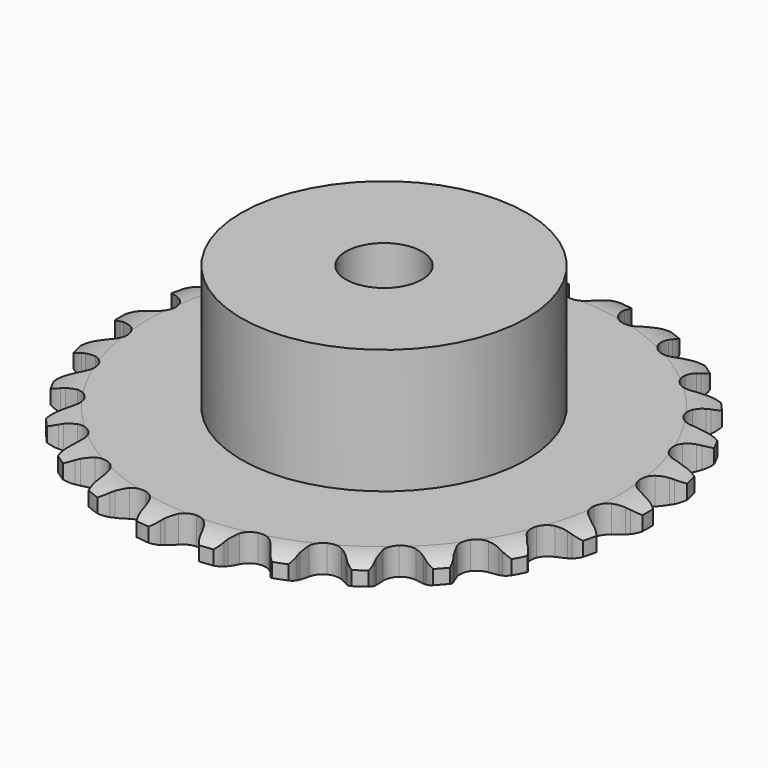
from build123d import *

# Parameters (mm, degrees)
PAD_DEPTH         = 2.9
SKETCH001_R       = 15
PAD001_DEPTH      = 16
SKETCH002_R       = 4
POCKET_DEPTH      = 0.0010001
POCKET_DEPTH_BACK = 16.001


with BuildPart() as part:
    # Sprocket → Pad (new body)
    with BuildSketch(Plane.XY):
        with BuildLine():
            ThreePointArc((-3.4232506712, 28.19300575), (-2.6247869741, 27.6030238895), (-2.0964272781, 26.7625127934))
            Line((-2.0964272781, 26.7625127934), (-1.9358469765, 26.3540520778))
            ThreePointArc((-1.9358469765, 26.3540520778), (-1.6786242774, 25.8129049491), (-1.3492634161, 25.3123800696))
            ThreePointArc((-1.3492634161, 25.3123800696), (-0.7528285942, 24.82038083), (0, 24.6441796485))
            ThreePointArc((0, 24.6441796485), (0.7528285942, 24.82038083), (1.3492634161, 25.3123800696))
            ThreePointArc((1.3492634161, 25.3123800696), (1.6786242774, 25.8129049491), (1.9358469765, 26.3540520778))
            Line((1.9358469765, 26.3540520778), (2.0964272781, 26.7625127934))
            ThreePointArc((2.0964272781, 26.7625127934), (2.6247869741, 27.6030238895), (3.4232506712, 28.19300575))
            ThreePointArc((3.4232506712, 28.19300575), (4.0573205635, 27.4290828201), (4.3691796157, 26.4865506972))
            Line((4.3691796157, 26.4865506972), (4.4273426981, 26.0515297261))
            ThreePointArc((4.4273426981, 26.0515297261), (4.5475859884, 25.4645499283), (4.7475927777, 24.8997481789))
            ThreePointArc((4.7475927777, 24.8997481789), (5.2089531628, 24.2793093474), (5.8977382234, 23.9280645769))
            ThreePointArc((5.8977382234, 23.9280645769), (6.6708586896, 23.9189819972), (7.3677053244, 24.2539484375))
            Line((7.3677053244, 24.2539484375), (8.1865322613, 25.1249727158))
            ThreePointArc((8.1865322613, 25.1249727158), (8.308830642, 25.307265132), (8.4401974386, 25.4831349238))
            ThreePointArc((8.4401974386, 25.4831349238), (9.1543514334, 26.1727775435), (10.0708051275, 26.5545307332))
            ThreePointArc((10.0708051275, 26.5545307332), (10.5036313777, 25.6610631578), (10.5808656715, 24.6712865491))
            Line((10.5808656715, 24.6712865491), (10.5332313078, 24.2349871602))
            ThreePointArc((10.5332313078, 24.2349871602), (10.5095070864, 23.6362878256), (10.568536136, 23.0400334309))
            ThreePointArc((10.568536136, 23.0400334309), (10.8680094957, 22.3272126572), (11.4527213387, 21.8213373671))
            ThreePointArc((11.4527213387, 21.8213373671), (12.2012027256, 21.6274988727), (12.9579629799, 21.7859654816))
            Line((12.9579629799, 21.7859654816), (13.9614460479, 22.4357212652))
            ThreePointArc((13.9614460479, 22.4357212652), (14.1238160906, 22.5834486768), (14.2934540029, 22.7227698799))
            ThreePointArc((14.2934540029, 22.7227698799), (15.1518982622, 23.2214645007), (16.1330809957, 23.372802912))
            ThreePointArc((16.1330809957, 23.372802912), (16.3395093154, 22.4017157789), (16.1776302743, 21.4222169034))
            Line((16.1776302743, 21.4222169034), (16.0269668006, 21.0099952311))
            ThreePointArc((16.0269668006, 21.0099952311), (15.860653833, 20.4343705889), (15.7752745891, 19.841315687))
            ThreePointArc((15.7752745891, 19.841315687), (15.8954566203, 19.0775395235), (16.3421139187, 18.4464333468))
            ThreePointArc((16.3421139187, 18.4464333468), (17.0224572088, 18.0791041264), (17.7951509272, 18.0518614008))
            Line((17.7951509272, 18.0518614008), (18.924971338, 18.4425872451))
            ThreePointArc((18.924971338, 18.4425872451), (19.117976686, 18.547164272), (19.3160269751, 18.6418400444))
            ThreePointArc((19.3160269751, 18.6418400444), (20.2688718389, 18.9206043478), (21.2577608378, 18.8327327422))
            ThreePointArc((21.2577608378, 18.8327327422), (21.2257943633, 17.8404621059), (20.8342098089, 16.9281658777))
            Line((20.8342098089, 16.9281658777), (20.5892732386, 16.5639787474))
            ThreePointArc((20.5892732386, 16.5639787474), (20.2900370299, 16.0448820095), (20.065211424, 15.4894927957))
            ThreePointArc((20.065211424, 15.4894927957), (19.9991175838, 14.7191491368), (20.2817622389, 13.9994896704))
            ThreePointArc((20.2817622389, 13.9994896704), (20.8544283531, 13.4800175632), (21.5981493854, 13.2686487512))
            Line((21.5981493854, 13.2686487512), (22.7886460834, 13.3776370905))
            ThreePointArc((22.7886460834, 13.3776370905), (23.0010699674, 13.4329860959), (23.2160226705, 13.477514226))
            ThreePointArc((23.2160226705, 13.477514226), (24.2078922586, 13.5201474437), (25.1470168888, 13.1981725997))
            ThreePointArc((25.1470168888, 13.1981725997), (24.8785133955, 12.2423856227), (24.2799807987, 11.4503113827))
            Line((24.2799807987, 11.4503113827), (23.9550059549, 11.1553240265))
            ThreePointArc((23.9550059549, 11.1553240265), (23.540237026, 10.7229232084), (23.1890311049, 10.237476885))
            ThreePointArc((23.1890311049, 10.237476885), (22.9405025271, 9.5053353041), (23.042708259, 8.7389465405))
            ThreePointArc((23.042708259, 8.7389465405), (23.4744159243, 8.0975213771), (24.1459419074, 7.7143104657))
            Line((24.1459419074, 7.7143104657), (25.3279275517, 7.5352272938))
            ThreePointArc((25.3279275517, 7.5352272938), (25.5474246678, 7.5381315948), (25.766787515, 7.5299242694))
            ThreePointArc((25.766787515, 7.5299242694), (26.7400379724, 7.333948714), (27.5748197239, 6.796582639))
            ThreePointArc((27.5748197239, 6.796582639), (27.0853836589, 5.9328261864), (26.3146875586, 5.3070064103))
            Line((26.3146875586, 5.3070064103), (25.9285607981, 5.0983624212))
            ThreePointArc((25.9285607981, 5.0983624212), (25.4223640114, 4.7777870867), (24.9651885867, 4.3904960296))
            ThreePointArc((24.9651885867, 4.3904960296), (24.5486688489, 3.739105934), (24.464495832, 2.9705276024))
            ThreePointArc((24.464495832, 2.9705276024), (24.730155768, 2.2444266818), (25.2904600526, 1.7116444963))
            Line((25.2904600526, 1.7116444963), (26.3952419341, 1.2548974763))
            ThreePointArc((26.3952419341, 1.2548974763), (26.6090559076, 1.2051882855), (26.8200803276, 1.1447224845))
            ThreePointArc((26.8200803276, 1.1447224845), (27.7181498753, 0.7215275429), (28.4000742671, 0))
            ThreePointArc((28.4000742671, 0), (27.7181498753, -0.7215275429), (26.8200803276, -1.1447224845))
            Line((26.8200803276, -1.1447224845), (26.3952419341, -1.2548974763))
            ThreePointArc((26.3952419341, -1.2548974763), (25.827035607, -1.4450166539), (25.2904600526, -1.7116444963))
            ThreePointArc((25.2904600526, -1.7116444963), (24.730155768, -2.2444266818), (24.464495832, -2.9705276024))
            ThreePointArc((24.464495832, -2.9705276024), (24.5486688489, -3.739105934), (24.9651885867, -4.3904960296))
            Line((24.9651885867, -4.3904960296), (25.9285607981, -5.0983624212))
            ThreePointArc((25.9285607981, -5.0983624212), (26.1242655381, -5.1977961864), (26.3146875586, -5.3070064103))
            ThreePointArc((26.3146875586, -5.3070064103), (27.0853836589, -5.9328261864), (27.5748197239, -6.796582639))
            ThreePointArc((27.5748197239, -6.796582639), (26.7400379724, -7.333948714), (25.766787515, -7.5299242694))
            Line((25.766787515, -7.5299242694), (25.3279275517, -7.5352272938))
            ThreePointArc((25.3279275517, -7.5352272938), (24.7307337705, -7.583841279), (24.1459419074, -7.7143104657))
            ThreePointArc((24.1459419074, -7.7143104657), (23.4744159243, -8.0975213771), (23.042708259, -8.7389465405))
            ThreePointArc((23.042708259, -8.7389465405), (22.9405025271, -9.5053353041), (23.1890311049, -10.237476885))
            Line((23.1890311049, -10.237476885), (23.9550059549, -11.1553240265))
            ThreePointArc((23.9550059549, -11.1553240265), (24.1212278133, -11.2987036371), (24.2799807987, -11.4503113827))
            ThreePointArc((24.2799807987, -11.4503113827), (24.8785133955, -12.2423856227), (25.1470168888, -13.1981725997))
            ThreePointArc((25.1470168888, -13.1981725997), (24.2078922586, -13.5201474437), (23.2160226705, -13.477514226))
            Line((23.2160226705, -13.477514226), (22.7886460834, -13.3776370905))
            ThreePointArc((22.7886460834, -13.3776370905), (22.1971715799, -13.2819206151), (21.5981493854, -13.2686487512))
            ThreePointArc((21.5981493854, -13.2686487512), (20.8544283531, -13.4800175632), (20.2817622389, -13.9994896704))
            ThreePointArc((20.2817622389, -13.9994896704), (19.9991175838, -14.7191491368), (20.065211424, -15.4894927957))
            Line((20.065211424, -15.4894927957), (20.5892732386, -16.5639787474))
            ThreePointArc((20.5892732386, -16.5639787474), (20.7163520051, -16.7429715015), (20.8342098089, -16.9281658777))
            ThreePointArc((20.8342098089, -16.9281658777), (21.2257943633, -17.8404621059), (21.2577608378, -18.8327327422))
            ThreePointArc((21.2577608378, -18.8327327422), (20.2688718389, -18.9206043478), (19.3160269751, -18.6418400444))
            Line((19.3160269751, -18.6418400444), (18.924971338, -18.4425872451))
            ThreePointArc((18.924971338, -18.4425872451), (18.3735904605, -18.2081030029), (17.7951509272, -18.0518614008))
            ThreePointArc((17.7951509272, -18.0518614008), (17.0224572088, -18.0791041264), (16.3421139187, -18.4464333468))
            ThreePointArc((16.3421139187, -18.4464333468), (15.8954566203, -19.0775395235), (15.7752745891, -19.841315687))
            Line((15.7752745891, -19.841315687), (16.0269668006, -21.0099952311))
            ThreePointArc((16.0269668006, -21.0099952311), (16.1075171192, -21.2141987205), (16.1776302743, -21.4222169034))
            ThreePointArc((16.1776302743, -21.4222169034), (16.3395093154, -22.4017157789), (16.1330809957, -23.372802912))
            ThreePointArc((16.1330809957, -23.372802912), (15.1518982622, -23.2214645007), (14.2934540029, -22.7227698799))
            Line((14.2934540029, -22.7227698799), (13.9614460479, -22.4357212652))
            ThreePointArc((13.9614460479, -22.4357212652), (13.4822030488, -22.0760966279), (12.9579629799, -21.7859654816))
            ThreePointArc((12.9579629799, -21.7859654816), (12.2012027256, -21.6274988727), (11.4527213387, -21.8213373671))
            ThreePointArc((11.4527213387, -21.8213373671), (10.8680094957, -22.3272126572), (10.568536136, -23.0400334309))
            Line((10.568536136, -23.0400334309), (10.5332313078, -24.2349871602))
            ThreePointArc((10.5332313078, -24.2349871602), (10.5625718869, -24.4525338203), (10.5808656715, -24.6712865491))
            ThreePointArc((10.5808656715, -24.6712865491), (10.5036313777, -25.6610631578), (10.0708051275, -26.5545307332))
            ThreePointArc((10.0708051275, -26.5545307332), (9.1543514334, -26.1727775435), (8.4401974386, -25.4831349238))
            Line((8.4401974386, -25.4831349238), (8.1865322613, -25.1249727158))
            ThreePointArc((8.1865322613, -25.1249727158), (7.8072790017, -24.6611077602), (7.3677053244, -24.2539484375))
            ThreePointArc((7.3677053244, -24.2539484375), (6.6708586896, -23.9189819972), (5.8977382234, -23.9280645769))
            ThreePointArc((5.8977382234, -23.9280645769), (5.2089531628, -24.2793093474), (4.7475927777, -24.8997481789))
            Line((4.7475927777, -24.8997481789), (4.4273426981, -26.0515297261))
            ThreePointArc((4.4273426981, -26.0515297261), (4.4037683698, -26.2697765359), (4.3691796157, -26.4865506972))
            ThreePointArc((4.3691796157, -26.4865506972), (4.0573205635, -27.4290828201), (3.4232506712, -28.19300575))
            ThreePointArc((3.4232506712, -28.19300575), (2.6247869741, -27.6030238895), (2.0964272781, -26.7625127934))
            Line((2.0964272781, -26.7625127934), (1.9358469765, -26.3540520778))
            ThreePointArc((1.9358469765, -26.3540520778), (1.6786242774, -25.8129049491), (1.3492634161, -25.3123800696))
            ThreePointArc((1.3492634161, -25.3123800696), (0.7528285942, -24.82038083), (0, -24.6441796485))
            ThreePointArc((0, -24.6441796485), (-0.7528285942, -24.82038083), (-1.3492634161, -25.3123800696))
            Line((-1.3492634161, -25.3123800696), (-1.9358469765, -26.3540520778))
            ThreePointArc((-1.9358469765, -26.3540520778), (-2.0109661579, -26.5603153259), (-2.0964272781, -26.7625127934))
            ThreePointArc((-2.0964272781, -26.7625127934), (-2.6247869741, -27.6030238895), (-3.4232506712, -28.19300575))
            ThreePointArc((-3.4232506712, -28.19300575), (-4.0573205635, -27.4290828201), (-4.3691796157, -26.4865506972))
            Line((-4.3691796157, -26.4865506972), (-4.4273426981, -26.0515297261))
            ThreePointArc((-4.4273426981, -26.0515297261), (-4.5475859884, -25.4645499283), (-4.7475927777, -24.8997481789))
            ThreePointArc((-4.7475927777, -24.8997481789), (-5.2089531628, -24.2793093474), (-5.8977382234, -23.9280645769))
            ThreePointArc((-5.8977382234, -23.9280645769), (-6.6708586896, -23.9189819972), (-7.3677053244, -24.2539484375))
            Line((-7.3677053244, -24.2539484375), (-8.1865322613, -25.1249727158))
            ThreePointArc((-8.1865322613, -25.1249727158), (-8.308830642, -25.307265132), (-8.4401974386, -25.4831349238))
            ThreePointArc((-8.4401974386, -25.4831349238), (-9.1543514334, -26.1727775435), (-10.0708051275, -26.5545307332))
            ThreePointArc((-10.0708051275, -26.5545307332), (-10.5036313777, -25.6610631578), (-10.5808656715, -24.6712865491))
            Line((-10.5808656715, -24.6712865491), (-10.5332313078, -24.2349871602))
            ThreePointArc((-10.5332313078, -24.2349871602), (-10.5095070864, -23.6362878256), (-10.568536136, -23.0400334309))
            ThreePointArc((-10.568536136, -23.0400334309), (-10.8680094957, -22.3272126572), (-11.4527213387, -21.8213373671))
            ThreePointArc((-11.4527213387, -21.8213373671), (-12.2012027256, -21.6274988727), (-12.9579629799, -21.7859654816))
            Line((-12.9579629799, -21.7859654816), (-13.9614460479, -22.4357212652))
            ThreePointArc((-13.9614460479, -22.4357212652), (-14.1238160906, -22.5834486768), (-14.2934540029, -22.7227698799))
            ThreePointArc((-14.2934540029, -22.7227698799), (-15.1518982622, -23.2214645007), (-16.1330809957, -23.372802912))
            ThreePointArc((-16.1330809957, -23.372802912), (-16.3395093154, -22.4017157789), (-16.1776302743, -21.4222169034))
            Line((-16.1776302743, -21.4222169034), (-16.0269668006, -21.0099952311))
            ThreePointArc((-16.0269668006, -21.0099952311), (-15.860653833, -20.4343705889), (-15.7752745891, -19.841315687))
            ThreePointArc((-15.7752745891, -19.841315687), (-15.8954566203, -19.0775395235), (-16.3421139187, -18.4464333468))
            ThreePointArc((-16.3421139187, -18.4464333468), (-17.0224572088, -18.0791041264), (-17.7951509272, -18.0518614008))
            Line((-17.7951509272, -18.0518614008), (-18.924971338, -18.4425872451))
            ThreePointArc((-18.924971338, -18.4425872451), (-19.117976686, -18.547164272), (-19.3160269751, -18.6418400444))
            ThreePointArc((-19.3160269751, -18.6418400444), (-20.2688718389, -18.9206043478), (-21.2577608378, -18.8327327422))
            ThreePointArc((-21.2577608378, -18.8327327422), (-21.2257943633, -17.8404621059), (-20.8342098089, -16.9281658777))
            Line((-20.8342098089, -16.9281658777), (-20.5892732386, -16.5639787474))
            ThreePointArc((-20.5892732386, -16.5639787474), (-20.2900370299, -16.0448820095), (-20.065211424, -15.4894927957))
            ThreePointArc((-20.065211424, -15.4894927957), (-19.9991175838, -14.7191491368), (-20.2817622389, -13.9994896704))
            ThreePointArc((-20.2817622389, -13.9994896704), (-20.8544283531, -13.4800175632), (-21.5981493854, -13.2686487512))
            Line((-21.5981493854, -13.2686487512), (-22.7886460834, -13.3776370905))
            ThreePointArc((-22.7886460834, -13.3776370905), (-23.0010699674, -13.4329860959), (-23.2160226705, -13.477514226))
            ThreePointArc((-23.2160226705, -13.477514226), (-24.2078922586, -13.5201474437), (-25.1470168888, -13.1981725997))
            ThreePointArc((-25.1470168888, -13.1981725997), (-24.8785133955, -12.2423856227), (-24.2799807987, -11.4503113827))
            Line((-24.2799807987, -11.4503113827), (-23.9550059549, -11.1553240265))
            ThreePointArc((-23.9550059549, -11.1553240265), (-23.540237026, -10.7229232084), (-23.1890311049, -10.237476885))
            ThreePointArc((-23.1890311049, -10.237476885), (-22.9405025271, -9.5053353041), (-23.042708259, -8.7389465405))
            ThreePointArc((-23.042708259, -8.7389465405), (-23.4744159243, -8.0975213771), (-24.1459419074, -7.7143104657))
            Line((-24.1459419074, -7.7143104657), (-25.3279275517, -7.5352272938))
            ThreePointArc((-25.3279275517, -7.5352272938), (-25.5474246678, -7.5381315948), (-25.766787515, -7.5299242694))
            ThreePointArc((-25.766787515, -7.5299242694), (-26.7400379724, -7.333948714), (-27.5748197239, -6.796582639))
            ThreePointArc((-27.5748197239, -6.796582639), (-27.0853836589, -5.9328261864), (-26.3146875586, -5.3070064103))
            Line((-26.3146875586, -5.3070064103), (-25.9285607981, -5.0983624212))
            ThreePointArc((-25.9285607981, -5.0983624212), (-25.4223640114, -4.7777870867), (-24.9651885867, -4.3904960296))
            ThreePointArc((-24.9651885867, -4.3904960296), (-24.5486688489, -3.739105934), (-24.464495832, -2.9705276024))
            ThreePointArc((-24.464495832, -2.9705276024), (-24.730155768, -2.2444266818), (-25.2904600526, -1.7116444963))
            Line((-25.2904600526, -1.7116444963), (-26.3952419341, -1.2548974763))
            ThreePointArc((-26.3952419341, -1.2548974763), (-26.6090559076, -1.2051882855), (-26.8200803276, -1.1447224845))
            ThreePointArc((-26.8200803276, -1.1447224845), (-27.7181498753, -0.7215275429), (-28.4000742671, 0))
            ThreePointArc((-28.4000742671, 0), (-27.7181498753, 0.7215275429), (-26.8200803276, 1.1447224845))
            Line((-26.8200803276, 1.1447224845), (-26.3952419341, 1.2548974763))
            ThreePointArc((-26.3952419341, 1.2548974763), (-25.827035607, 1.4450166539), (-25.2904600526, 1.7116444963))
            ThreePointArc((-25.2904600526, 1.7116444963), (-24.730155768, 2.2444266818), (-24.464495832, 2.9705276024))
            ThreePointArc((-24.464495832, 2.9705276024), (-24.5486688489, 3.739105934), (-24.9651885867, 4.3904960296))
            Line((-24.9651885867, 4.3904960296), (-25.9285607981, 5.0983624212))
            ThreePointArc((-25.9285607981, 5.0983624212), (-26.1242655381, 5.1977961864), (-26.3146875586, 5.3070064103))
            ThreePointArc((-26.3146875586, 5.3070064103), (-27.0853836589, 5.9328261864), (-27.5748197239, 6.796582639))
            ThreePointArc((-27.5748197239, 6.796582639), (-26.7400379724, 7.333948714), (-25.766787515, 7.5299242694))
            Line((-25.766787515, 7.5299242694), (-25.3279275517, 7.5352272938))
            ThreePointArc((-25.3279275517, 7.5352272938), (-24.7307337705, 7.583841279), (-24.1459419074, 7.7143104657))
            ThreePointArc((-24.1459419074, 7.7143104657), (-23.4744159243, 8.0975213771), (-23.042708259, 8.7389465405))
            ThreePointArc((-23.042708259, 8.7389465405), (-22.9405025271, 9.5053353041), (-23.1890311049, 10.237476885))
            Line((-23.1890311049, 10.237476885), (-23.9550059549, 11.1553240265))
            ThreePointArc((-23.9550059549, 11.1553240265), (-24.1212278133, 11.2987036371), (-24.2799807987, 11.4503113827))
            ThreePointArc((-24.2799807987, 11.4503113827), (-24.8785133955, 12.2423856227), (-25.1470168888, 13.1981725997))
            ThreePointArc((-25.1470168888, 13.1981725997), (-24.2078922586, 13.5201474437), (-23.2160226705, 13.477514226))
            Line((-23.2160226705, 13.477514226), (-22.7886460834, 13.3776370905))
            ThreePointArc((-22.7886460834, 13.3776370905), (-22.1971715799, 13.2819206151), (-21.5981493854, 13.2686487512))
            ThreePointArc((-21.5981493854, 13.2686487512), (-20.8544283531, 13.4800175632), (-20.2817622389, 13.9994896704))
            ThreePointArc((-20.2817622389, 13.9994896704), (-19.9991175838, 14.7191491368), (-20.065211424, 15.4894927957))
            Line((-20.065211424, 15.4894927957), (-20.5892732386, 16.5639787474))
            ThreePointArc((-20.5892732386, 16.5639787474), (-20.7163520051, 16.7429715015), (-20.8342098089, 16.9281658777))
            ThreePointArc((-20.8342098089, 16.9281658777), (-21.2257943633, 17.8404621059), (-21.2577608378, 18.8327327422))
            ThreePointArc((-21.2577608378, 18.8327327422), (-20.2688718389, 18.9206043478), (-19.3160269751, 18.6418400444))
            Line((-19.3160269751, 18.6418400444), (-18.924971338, 18.4425872451))
            ThreePointArc((-18.924971338, 18.4425872451), (-18.3735904605, 18.2081030029), (-17.7951509272, 18.0518614008))
            ThreePointArc((-17.7951509272, 18.0518614008), (-17.0224572088, 18.0791041264), (-16.3421139187, 18.4464333468))
            ThreePointArc((-16.3421139187, 18.4464333468), (-15.8954566203, 19.0775395235), (-15.7752745891, 19.841315687))
            Line((-15.7752745891, 19.841315687), (-16.0269668006, 21.0099952311))
            ThreePointArc((-16.0269668006, 21.0099952311), (-16.1075171192, 21.2141987205), (-16.1776302743, 21.4222169034))
            ThreePointArc((-16.1776302743, 21.4222169034), (-16.3395093154, 22.4017157789), (-16.1330809957, 23.372802912))
            ThreePointArc((-16.1330809957, 23.372802912), (-15.1518982622, 23.2214645007), (-14.2934540029, 22.7227698799))
            Line((-14.2934540029, 22.7227698799), (-13.9614460479, 22.4357212652))
            ThreePointArc((-13.9614460479, 22.4357212652), (-13.4822030488, 22.0760966279), (-12.9579629799, 21.7859654816))
            ThreePointArc((-12.9579629799, 21.7859654816), (-12.2012027256, 21.6274988727), (-11.4527213387, 21.8213373671))
            ThreePointArc((-11.4527213387, 21.8213373671), (-10.8680094957, 22.3272126572), (-10.568536136, 23.0400334309))
            Line((-10.568536136, 23.0400334309), (-10.5332313078, 24.2349871602))
            ThreePointArc((-10.5332313078, 24.2349871602), (-10.5625718869, 24.4525338203), (-10.5808656715, 24.6712865491))
            ThreePointArc((-10.5808656715, 24.6712865491), (-10.5036313777, 25.6610631578), (-10.0708051275, 26.5545307332))
            ThreePointArc((-10.0708051275, 26.5545307332), (-9.1543514334, 26.1727775435), (-8.4401974386, 25.4831349238))
            Line((-8.4401974386, 25.4831349238), (-8.1865322613, 25.1249727158))
            ThreePointArc((-8.1865322613, 25.1249727158), (-7.8072790017, 24.6611077602), (-7.3677053244, 24.2539484375))
            ThreePointArc((-7.3677053244, 24.2539484375), (-6.6708586896, 23.9189819972), (-5.8977382234, 23.9280645769))
            ThreePointArc((-5.8977382234, 23.9280645769), (-5.2089531628, 24.2793093474), (-4.7475927777, 24.8997481789))
            Line((-4.7475927777, 24.8997481789), (-4.4273426981, 26.0515297261))
            ThreePointArc((-4.4273426981, 26.0515297261), (-4.4037683698, 26.2697765359), (-4.3691796157, 26.4865506972))
            ThreePointArc((-4.3691796157, 26.4865506972), (-4.0573205635, 27.4290828201), (-3.4232506712, 28.19300575))
        make_face()
    extrude(amount=PAD_DEPTH)

    # Sketch → Groove (revolve, cut)
    with BuildSketch(Plane.XZ):
        with BuildLine():
            Line((24.8396735578, 0), (27.75, 0))
            Line((30.6603264422, 0), (27.75, 0))
            Line((30.6603264422, 2.9), (30.6603264422, 0))
            Line((27.75, 2.9), (30.6603264422, 2.9))
            Line((24.8396735578, 2.9), (27.75, 2.9))
            ThreePointArc((27.75, 2.2), (26.3363365125, 2.7225396744), (24.8396735578, 2.9))
            Line((27.75, 0.7), (27.75, 2.2))
            ThreePointArc((24.8396735578, 0), (26.3363365125, 0.1774603256), (27.75, 0.7))
        make_face()
    revolve(axis=Axis((0, 0, 0), (0, 0, 1)), mode=Mode.SUBTRACT)

    # Sketch001 → Pad001 (join)
    with BuildSketch(Plane.XY):
        Circle(SKETCH001_R)
    extrude(amount=PAD001_DEPTH)

    # Sketch002 → Pocket (cut, two sides)
    with BuildSketch(Plane.XY) as pocket_sk:
        Circle(SKETCH002_R)
    extrude(amount=-POCKET_DEPTH, mode=Mode.SUBTRACT)
    extrude(pocket_sk.sketch, amount=POCKET_DEPTH_BACK, mode=Mode.SUBTRACT)


solid = part.part
